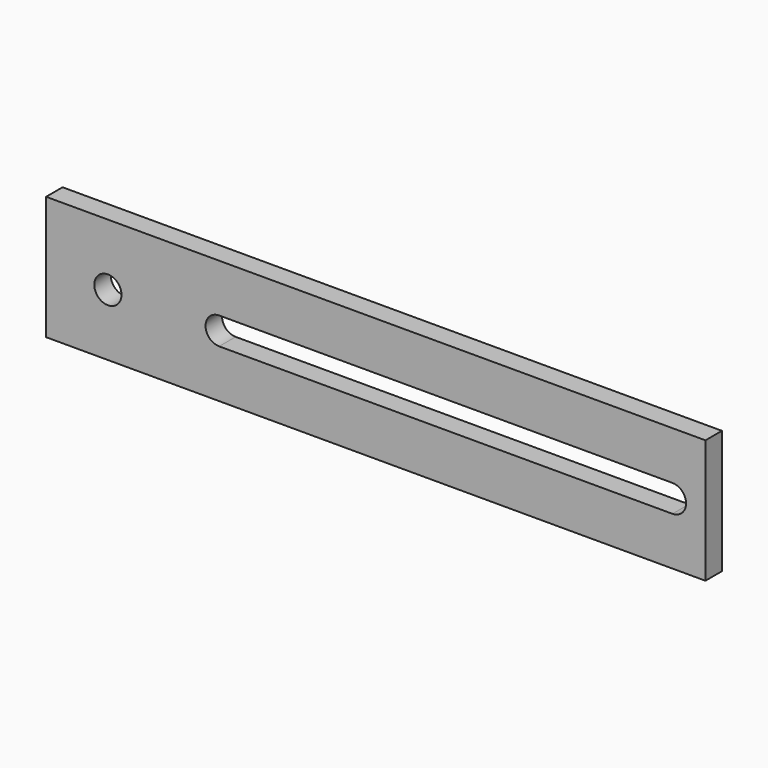
from build123d import *

# Parameters (mm, degrees)
F0_W     = 203.2
F0_H     = 38.1
F1_DEPTH = 6.35
F2_R     = 4.191
F3_DEPTH = 6.35
F4_W     = 139.7
F4_H     = 8.382
F5_DEPTH = 25.4


with BuildPart() as f1:
    # F0 (on Front) → F1 (new body)
    with BuildSketch(Plane.XZ):
        Rectangle(F0_W, F0_H)
    extrude(amount=F1_DEPTH)

    # F2 (on face) → F3 (cut, through all)
    with BuildSketch(Plane.XZ.offset(6.35)):
        with Locations((-82.55, 0)):
            Circle(F2_R)
    extrude(amount=-F3_DEPTH, mode=Mode.SUBTRACT)

    # F4 (on face) → F5 (cut)
    with BuildSketch(Plane.XZ.offset(6.35)):
        with Locations((21.59, 0)):
            Rectangle(F4_W, F4_H)
        with BuildLine():
            Line((91.44, 4.191), (91.44, -4.191))
            ThreePointArc((91.44, -4.191), (95.631, 0), (91.44, 4.191))
        make_face()
        with BuildLine():
            ThreePointArc((-48.26, 4.191), (-52.451, 0), (-48.26, -4.191))
            Line((-48.26, -4.191), (-48.26, 4.191))
        make_face()
    extrude(amount=-F5_DEPTH, mode=Mode.SUBTRACT)


solid = f1.part
